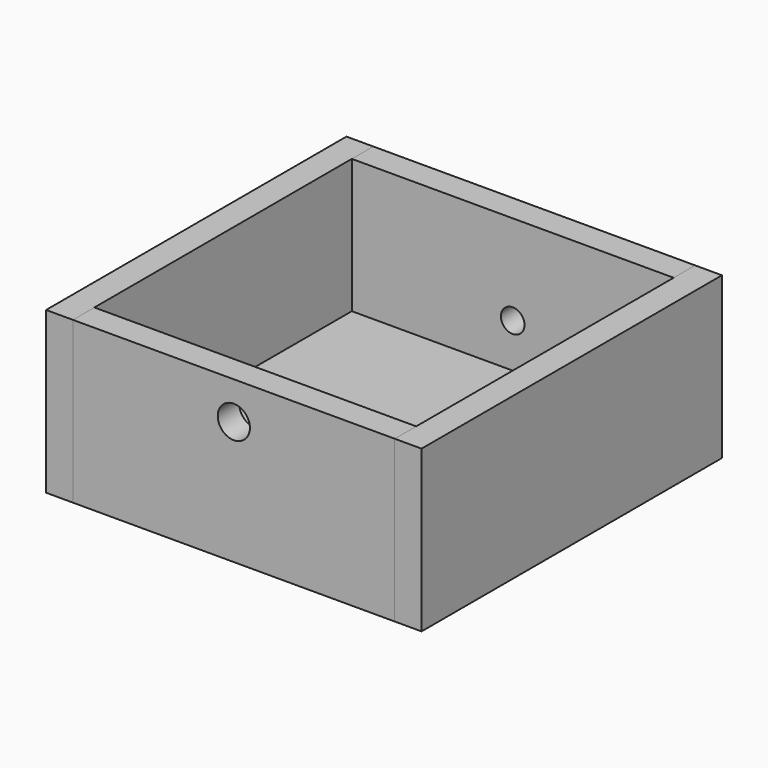
from build123d import *

# Parameters (mm, degrees)
F0_W     = 300
F0_H     = 150
F1_DEPTH = 25
F2_DEPTH = 25
F0_H_2   = 25
F3_DEPTH = 150
F4_DEPTH = 150
F6_DEPTH = 25
F7_R     = 15
F8_DEPTH = 25


with BuildPart() as f1:
    # F0 (on Top) → F1 (new body)
    with BuildSketch(Plane.XY):
        with Locations((150, 75)):
            Rectangle(F0_W, F0_H)
    extrude(amount=F1_DEPTH)


with BuildPart() as f2:
    # F0 (on Top) → F2 (new body)
    with BuildSketch(Plane.XY):
        with Locations((150, 225)):
            Rectangle(F0_W, F0_H)
    extrude(amount=F2_DEPTH)


with BuildPart() as f3:
    # F0 (on Top) → F3 (new body)
    with BuildSketch(Plane.XY):
        with Locations((150, 312.5)):
            Rectangle(F0_W, F0_H_2)
        with Locations((150, -12.5)):
            Rectangle(F0_W, F0_H_2)
    extrude(amount=F3_DEPTH)

    # F5 (on face) → F6 (cut, through all)
    with BuildSketch(Plane(origin=(0, 325, 0), x_dir=(-1, 0, 0), z_dir=(0, 1, 0))):
        with BuildLine():
            ThreePointArc((-161, 66), (-150, 55), (-139, 66))
            Line((-139, 66), (-161, 66))
        make_face()
        with BuildLine():
            Line((-161, 66), (-139, 66))
            ThreePointArc((-139, 66), (-150, 77), (-161, 66))
        make_face()
    extrude(amount=-F6_DEPTH, mode=Mode.SUBTRACT)

    # F7 (on face) → F8 (cut, through all)
    with BuildSketch(Plane.XZ.offset(25)):
        with Locations((150, 115)):
            Circle(F7_R)
    extrude(amount=-F8_DEPTH, mode=Mode.SUBTRACT)


with BuildPart() as f4:
    # F0 (on Top) → F4 (new body)
    with BuildSketch(Plane.XY):
        Polygon((300, 150), (300, 0), (300, -25), (325, -25), (325, 325), (300, 325), (300, 300), align=None)
        Polygon((0, -25), (0, 0), (0, 150), (0, 300), (0, 325), (-25, 325), (-25, -25), align=None)
    extrude(amount=F4_DEPTH)


solid = Compound([f1.part, f2.part, f3.part, f4.part])
